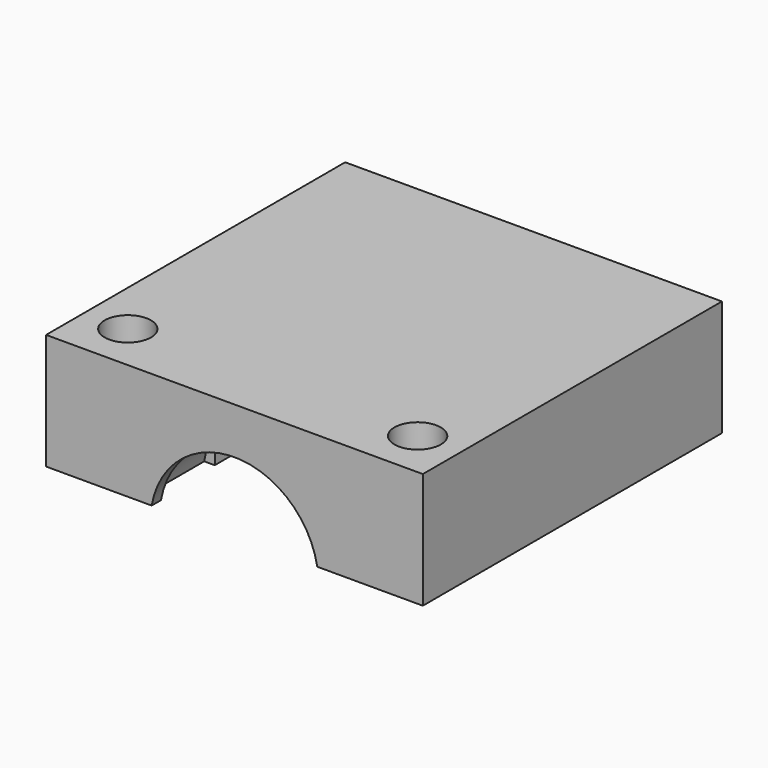
from build123d import *

# Parameters (mm, degrees)
F1_DEPTH = 2.5
F2_R     = 1.6
F3_DEPTH = 12.5
F6_DEPTH = 20
F9_DEPTH = 0.8


with BuildPart() as f1:
    # F0 (on Front) → F1 (new body, symmetric)
    with BuildSketch(Plane.XZ):
        with BuildLine():
            Line((13, 4), (-13, 4))
            Line((-13, 4), (-13, -4))
            Line((-13, -4), (-6.7260686883, -4))
            ThreePointArc((-6.7260686883, -4), (0, 1.8), (6.7260686883, -4))
            Line((6.7260686883, -4), (13, -4))
            Line((13, -4), (13, 4))
        make_face()
    extrude(amount=F1_DEPTH, both=True)

    # F2 (on Top) → F3 (cut, symmetric)
    with BuildSketch(Plane.XY):
        with Locations((10, 0)):
            Circle(F2_R)
        with Locations((-10, 0)):
            Circle(F2_R)
    extrude(amount=F3_DEPTH, both=True, mode=Mode.SUBTRACT)

    # F5 (on offset) → F6 (join)
    with BuildSketch(Plane(origin=(0, 2.5, 0), x_dir=(-1, 0, 0), z_dir=(0, 1, 0))):
        Polygon((13, 4), (-13, 4), (-13, -4), (-6, -4), (-6, -0.9), (6, -0.9), (6, -4), (13, -4), align=None)
    extrude(amount=F6_DEPTH)

    # F8 (on offset) → F9 (join)
    with BuildSketch(Plane.XZ.offset(2.5)):
        with BuildLine():
            Line((13, 4), (-13, 4))
            Line((-13, 4), (-13, -4))
            Line((-13, -4), (-5.7131427428, -4))
            ThreePointArc((-5.7131427428, -4), (0, 0.8), (5.7131427428, -4))
            Line((5.7131427428, -4), (13, -4))
            Line((13, -4), (13, 4))
        make_face()
    extrude(amount=F9_DEPTH)


solid = f1.part
